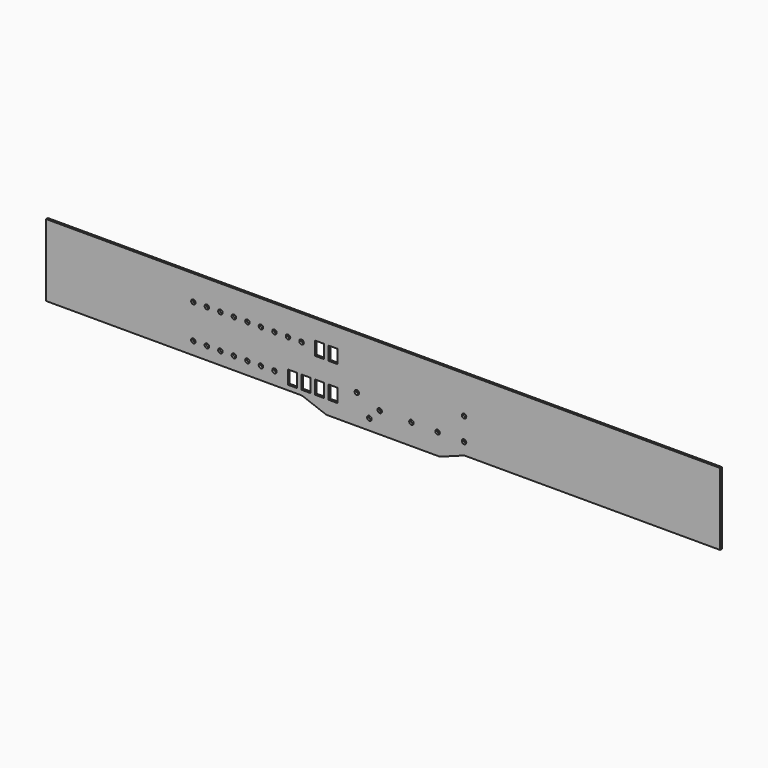
from build123d import *

# Parameters (mm, degrees)
F0_R     = 3.175
F0_W     = 12.7
F0_H     = 19.05
F1_DEPTH = 3.175


with BuildPart() as f1:
    # F0 (on Front) → F1 (new body)
    with BuildSketch(Plane.XZ):
        Polygon((974.725, 0), (25.4, 0), (25.4, -101.6), (385.7625, -101.6), (420.0525, -114.3), (580.0725, -114.3), (614.3625, -101.6), (974.725, -101.6), align=None)
        with Locations((480.704695, -99.031121)):
            Circle(F0_R, mode=Mode.SUBTRACT)
        with Locations((232.801663, -83.633017)):
            Circle(F0_R, mode=Mode.SUBTRACT)
        with Locations((251.851663, -83.633017)):
            Circle(F0_R, mode=Mode.SUBTRACT)
        with Locations((270.901663, -83.633017)):
            Circle(F0_R, mode=Mode.SUBTRACT)
        with Locations((289.951663, -83.633017)):
            Circle(F0_R, mode=Mode.SUBTRACT)
        with Locations((309.001663, -83.633017)):
            Circle(F0_R, mode=Mode.SUBTRACT)
        with Locations((328.051663, -83.633017)):
            Circle(F0_R, mode=Mode.SUBTRACT)
        with Locations((347.101663, -83.633017)):
            Circle(F0_R, mode=Mode.SUBTRACT)
        with Locations((372.314619, -85.180008)):
            Rectangle(F0_W, F0_H, mode=Mode.SUBTRACT)
        with Locations((391.364619, -85.180008)):
            Rectangle(F0_W, F0_H, mode=Mode.SUBTRACT)
        with Locations((410.414619, -85.180008)):
            Rectangle(F0_W, F0_H, mode=Mode.SUBTRACT)
        with Locations((429.464619, -85.180008)):
            Rectangle(F0_W, F0_H, mode=Mode.SUBTRACT)
        with Locations((495.250846, -84.729814)):
            Circle(F0_R, mode=Mode.SUBTRACT)
        with Locations((463.115394, -72.799541)):
            Circle(F0_R, mode=Mode.SUBTRACT)
        with Locations((539.947916, -84.729814)):
            Circle(F0_R, mode=Mode.SUBTRACT)
        with Locations((576.749104, -84.729814)):
            Circle(F0_R, mode=Mode.SUBTRACT)
        with Locations((614.013374, -84.729814)):
            Circle(F0_R, mode=Mode.SUBTRACT)
        with Locations((232.801663, -35.373017)):
            Circle(F0_R, mode=Mode.SUBTRACT)
        with Locations((251.851663, -35.373017)):
            Circle(F0_R, mode=Mode.SUBTRACT)
        with Locations((270.901663, -35.373017)):
            Circle(F0_R, mode=Mode.SUBTRACT)
        with Locations((289.951663, -35.373017)):
            Circle(F0_R, mode=Mode.SUBTRACT)
        with Locations((309.001663, -35.373017)):
            Circle(F0_R, mode=Mode.SUBTRACT)
        with Locations((328.051663, -35.373017)):
            Circle(F0_R, mode=Mode.SUBTRACT)
        with Locations((347.101663, -35.373017)):
            Circle(F0_R, mode=Mode.SUBTRACT)
        with Locations((366.151663, -35.373017)):
            Circle(F0_R, mode=Mode.SUBTRACT)
        with Locations((410.414619, -36.920008)):
            Rectangle(F0_W, F0_H, mode=Mode.SUBTRACT)
        with Locations((429.464619, -36.920008)):
            Rectangle(F0_W, F0_H, mode=Mode.SUBTRACT)
        with Locations((385.201663, -35.373017)):
            Circle(F0_R, mode=Mode.SUBTRACT)
        with Locations((614.013374, -52.794322)):
            Circle(F0_R, mode=Mode.SUBTRACT)
    extrude(amount=-F1_DEPTH)


solid = f1.part
